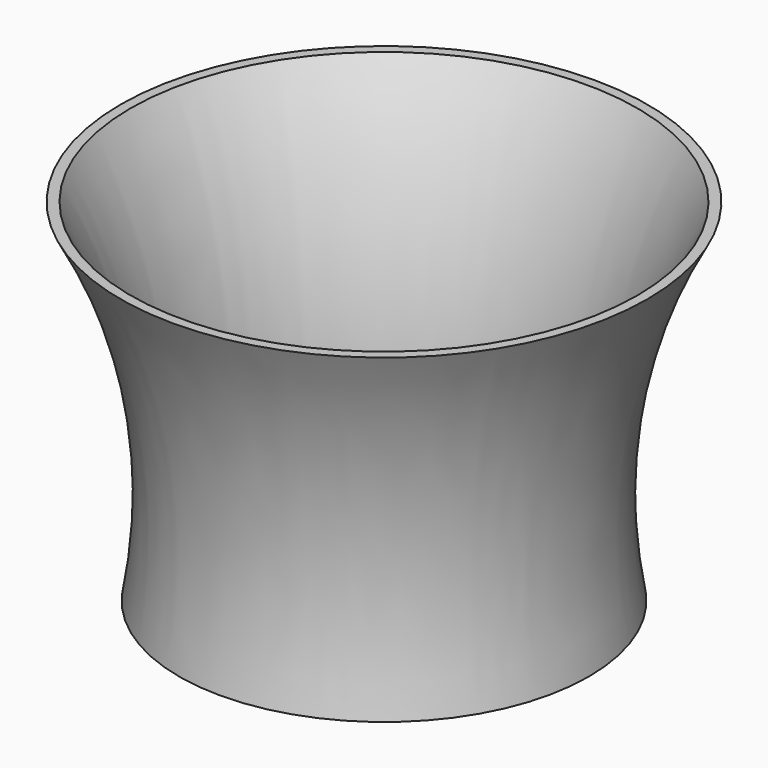
from build123d import *

# Parameters (mm, degrees)
F2_T     = -3
F3_R     = 2.7
F4_DEPTH = 25


with BuildPart() as f1:
    # F0 (on Front) → F1 (revolve)
    with BuildSketch(Plane.XZ):
        with BuildLine():
            Line((-70, 0), (0, 0))
            Line((0, 0), (0, 120))
            Line((0, 120), (-90, 120))
            ThreePointArc((-90, 120), (-69.464997, 61.755834), (-70, 0))
        make_face()
    revolve(axis=Axis((0, 0, 60), (0, 0, 1)))

    # F2
    f2_openings = [f1.faces().sort_by_distance(p)[0] for p in [
        (0, 0, 120),
    ]]
    offset(amount=F2_T, openings=f2_openings)

    # F3 (on face) → F4 (cut)
    with BuildSketch(Plane(origin=(0, 0, 0), x_dir=(1, 0, 0), z_dir=(0, 0, -1))):
        Circle(F3_R)
    extrude(amount=-F4_DEPTH, mode=Mode.SUBTRACT)


solid = f1.part
